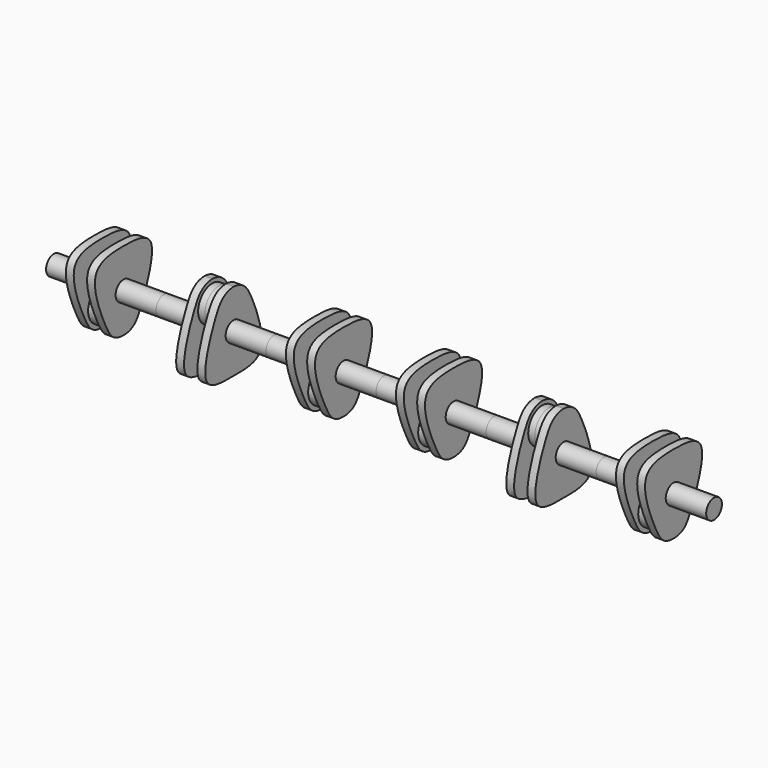
from build123d import *

# Parameters (mm, degrees)
F2_R      = 12.5
F3_DEPTH  = 51.5
F5_DEPTH  = 10
F6_R      = 22.5
F7_DEPTH  = 8.5
F10_R     = 12.5
F11_DEPTH = 51.5
F13_DEPTH = 10
F14_R     = 22.5
F15_DEPTH = 8.5


with BuildPart() as f3:
    # F2 (on offset) → F3 (new body)
    with BuildSketch(Plane.YZ.offset(435)):
        Circle(F2_R)
    extrude(amount=-F3_DEPTH)

    # F4 (on face) → F5 (join)
    with BuildSketch(Plane(origin=(383.5, 0, 0), x_dir=(0, -1, 0), z_dir=(-1, 0, 0))):
        with BuildLine():
            add(Edge.make_bspline(
                [(0, 50), (23.2703256947, 50), (59.3879666838, 44.434576609), (28.3591716176, -31.0147470693), (16.4371486753, -50), (0, -50)],
                knots=[0, 0, 0, 0, 0.3276827715, 0.7133455558, 1, 1, 1, 1], degree=3))
            add(Edge.make_bspline(
                [(0, 50), (-23.2703256947, 50), (-59.3879666838, 44.434576609), (-28.3591716176, -31.0147470693), (-16.4371486753, -50), (0, -50)],
                knots=[0, 0, 0, 0, 0.3276827715, 0.7133455558, 1, 1, 1, 1], degree=3))
        make_face()
    extrude(amount=F5_DEPTH)

    # F6 (on face) → F7 (join)
    with BuildSketch(Plane(origin=(373.5, 0, 0), x_dir=(0, -1, 0), z_dir=(-1, 0, 0))):
        with Locations((0, -22.4546957761)):
            Circle(F6_R)
    extrude(amount=F7_DEPTH)

    # F8: F3 across face


with BuildPart() as f3_1:
    add(f3.part)
    add(f3.part.mirror(Plane(origin=(365, 0, -22.4546957761), x_dir=(0, -1, 0), z_dir=(-1, 0, 0))))

    # F10 (on face) → F11 (join)
    with BuildSketch(Plane(origin=(295, 0, 0), x_dir=(0, -1, 0), z_dir=(-1, 0, 0))):
        Circle(F10_R)
    extrude(amount=F11_DEPTH)

    # F12 (on face) → F13 (join)
    with BuildSketch(Plane(origin=(243.5, 0, 0), x_dir=(0, -1, 0), z_dir=(-1, 0, 0))):
        with BuildLine():
            add(Edge.make_bspline(
                [(0, 50), (8.759394599, 49.2621521858), (17.6780426561, 44.4350148349), (28.3774481045, 30.8152635632), (61.4745305874, -51.2543680027), (18.1909982284, -50.0194242251), (0, -50)],
                knots=[0, 0, 0, 0, 0.1796542145, 0.36172826, 0.715530616, 1, 1, 1, 1], degree=3))
            add(Edge.make_bspline(
                [(0, 50), (-8.759394599, 49.2621521858), (-17.6780426561, 44.4350148349), (-28.3774481045, 30.8152635632), (-61.4745305874, -51.2543680027), (-18.1909982284, -50.0194242251), (0, -50)],
                knots=[0, 0, 0, 0, 0.1796542145, 0.36172826, 0.715530616, 1, 1, 1, 1], degree=3))
        make_face()
    extrude(amount=F13_DEPTH)

    # F14 (on face) → F15 (join)
    with BuildSketch(Plane(origin=(233.5, 0, 0), x_dir=(0, -1, 0), z_dir=(-1, 0, 0))):
        with Locations((0, 22.414823994)):
            Circle(F14_R)
    extrude(amount=F15_DEPTH)

    # F16: F3 across face


with BuildPart() as f3_2:
    add(f3_1.part)
    add(f3_1.part.mirror(Plane(origin=(225, 0, 22.414823994), x_dir=(0, -1, 0), z_dir=(-1, 0, 0))))

    # F17: F3 across face


with BuildPart() as f3_3:
    add(f3_2.part)
    add(f3_2.part.mirror(Plane(origin=(15, 0, 0), x_dir=(0, -1, 0), z_dir=(-1, 0, 0))))


solid = f3_3.part
